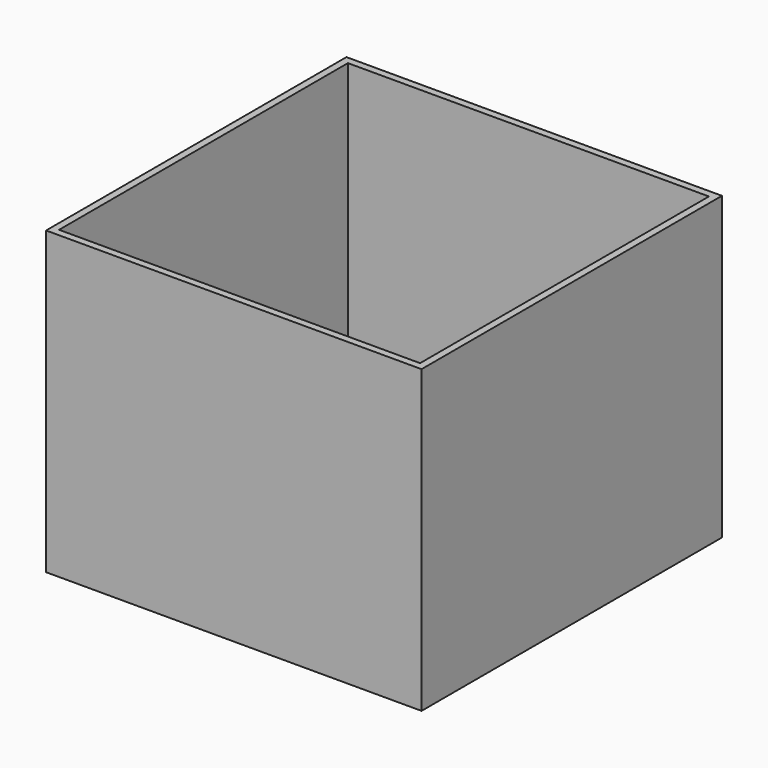
from build123d import *

# Parameters (mm, degrees)
F0_W     = 62.4
F0_H     = 62.4
F0_W_2   = 60
F0_H_2   = 60
F1_DEPTH = 50


with BuildPart() as f1:
    # F0 (on Top) → F1 (new body)
    with BuildSketch(Plane.XY):
        Rectangle(F0_W, F0_H)
        Rectangle(F0_W_2, F0_H_2, mode=Mode.SUBTRACT)
        Rectangle(F0_W, F0_H)
        Rectangle(F0_W_2, F0_H_2, mode=Mode.SUBTRACT)
    extrude(amount=F1_DEPTH)


solid = f1.part
